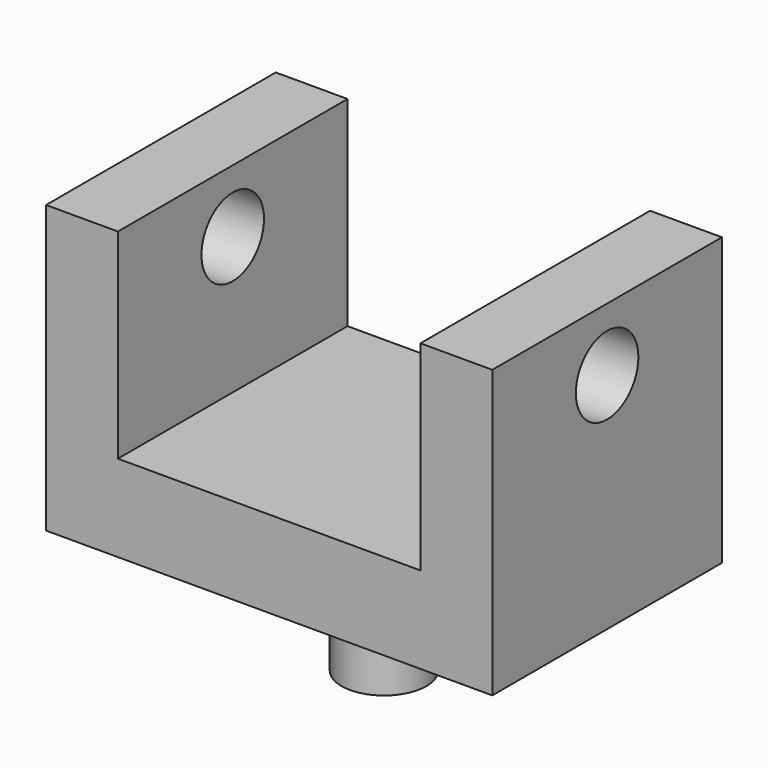
from build123d import *

# Parameters (mm, degrees)
F1_DEPTH = 39
F3_R     = 5.308104
F4_DEPTH = 60.626907
F5_R     = 5.76541
F6_DEPTH = 14.8


with BuildPart() as f1:
    # F0 (on Front) → F1 (new body)
    with BuildSketch(Plane.XZ):
        Polygon((0, 9.205531), (0, -2.570523), (30.312954, -2.570523), (30.312954, 36.376152), (20.553786, 36.376152), (20.553786, 9.205531), align=None)
    extrude(amount=-F1_DEPTH)

    # F2: F1 across face


with BuildPart() as f1_1:
    add(f1.part)
    add(f1.part.mirror(Plane(origin=(0, 19.5, 3.317504), x_dir=(0, -1, 0), z_dir=(-1, 0, 0))))

    # F3 (on face) → F4 (cut, through all)
    with BuildSketch(Plane.YZ.offset(30.312954)):
        with Locations((19.5, 27.813217)):
            Circle(F3_R)
    extrude(amount=-F4_DEPTH, mode=Mode.SUBTRACT)

    # F5 (on face) → F6 (join)
    with BuildSketch(Plane(origin=(0, 0, -2.570523), x_dir=(1, 0, 0), z_dir=(0, 0, -1))):
        with Locations((0, -19.5)):
            Circle(F5_R)
    extrude(amount=F6_DEPTH)


solid = f1_1.part
